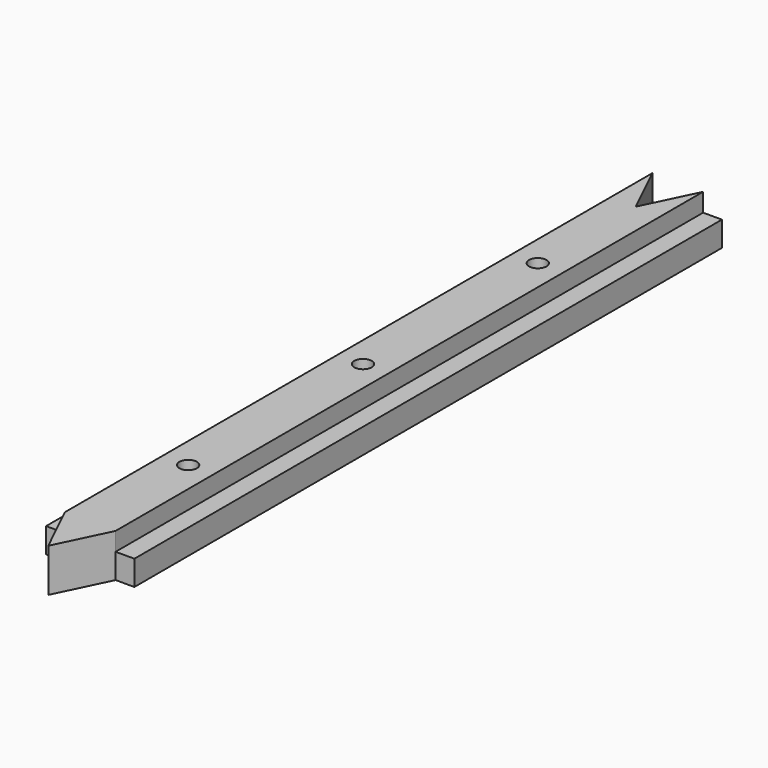
from build123d import *

# Parameters (mm, degrees)
F1_DEPTH   = 180
F2_R       = 2
F3_DEPTH   = 25
F4_R       = 6
F4_R_2     = 2
F5_DEPTH   = 3
F6_W       = 14.0674761496
F6_H       = 116.9483624399
F1_FACE1_W = 20.2
F1_FACE1_H = 180
F1_FACE1_R = 6
F7_DEPTH   = 0.5
F9_DEPTH   = 25
F10_W      = 4.3
F10_H      = 12
F11_DEPTH  = 25
F12_W      = 4.3
F12_H      = 12
F13_DEPTH  = 25


with BuildPart() as f1:
    # F0 (on Front) → F1 (new body)
    with BuildSketch(Plane.XZ):
        Polygon((5.8, 4.7), (-5.8, 4.7), (-5.8, 0.5), (-10.1, 0.5), (-10.1, -4.7), (10.1, -4.7), (10.1, 0.5), (5.8, 0.5), align=None)
    extrude(amount=F1_DEPTH)

    # F2 (on face) → F3 (cut)
    with BuildSketch(Plane.XY.offset(4.7)):
        with Locations((0, -140)):
            Circle(F2_R)
        with Locations((0, -90)):
            Circle(F2_R)
        with Locations((-0.0078984785, -40.0161966681)):
            Circle(F2_R)
    extrude(amount=-F3_DEPTH, mode=Mode.SUBTRACT)

    # F4 (on face) → F5 (cut)
    with BuildSketch(Plane(origin=(0, 0, -4.7), x_dir=(1, 0, 0), z_dir=(0, 0, -1))):
        with Locations((-0.0078984785, 40.0161966681)):
            Circle(F4_R)
        with Locations((-0.0078984785, 40.0161966681)):
            Circle(F4_R_2, mode=Mode.SUBTRACT)
        with Locations((0, 90)):
            Circle(F4_R)
        with Locations((0, 90)):
            Circle(F4_R_2, mode=Mode.SUBTRACT)
        with Locations((0, 140)):
            Circle(F4_R)
        with Locations((0, 140)):
            Circle(F4_R_2, mode=Mode.SUBTRACT)
    extrude(amount=-F5_DEPTH, mode=Mode.SUBTRACT)

    # F6 (on face) + F1_face1 (on face) → F7 (join)
    with BuildSketch(Plane(origin=(0, 0, -1.7), x_dir=(1, 0, 0), z_dir=(0, 0, -1))):
        with Locations((0.141544966, 90.3544295579)):
            Rectangle(F6_W, F6_H)
    with BuildSketch(Plane(origin=(2.75839e-05, -89.9999434363, -4.7), x_dir=(1, 0, 0), z_dir=(0, 0, -1))):
        with Locations((-2.75839e-05, 5.65637e-05)):
            Rectangle(F1_FACE1_W, F1_FACE1_H)
        with Locations((-2.75839e-05, 50.0000565637)):
            Circle(F1_FACE1_R, mode=Mode.SUBTRACT)
        with Locations((-0.0079260625, -49.9837467681)):
            Circle(F1_FACE1_R, mode=Mode.SUBTRACT)
        with Locations((-2.75839e-05, 5.65637e-05)):
            Circle(F1_FACE1_R, mode=Mode.SUBTRACT)
    extrude(amount=F7_DEPTH)

    # F8 (on face) → F9 (cut)
    with BuildSketch(Plane.XY.offset(4.7)):
        Polygon((5.8, -180), (5.8, -168), (0, -180), align=None)
        Polygon((0, -180), (-5.8, -168), (-5.8, -180), align=None)
        Polygon((0, -12), (5.8, 0), (-5.8, 0), align=None)
    extrude(amount=-F9_DEPTH, mode=Mode.SUBTRACT)

    # F10 (on face) → F11 (cut)
    with BuildSketch(Plane.XY.offset(0.5)):
        with Locations((7.95, -174)):
            Rectangle(F10_W, F10_H)
    extrude(amount=-F11_DEPTH, mode=Mode.SUBTRACT)

    # F12 (on face) → F13 (cut)
    with BuildSketch(Plane.XY.offset(0.5)):
        with Locations((-7.95, -174)):
            Rectangle(F12_W, F12_H)
    extrude(amount=-F13_DEPTH, mode=Mode.SUBTRACT)


solid = f1.part
